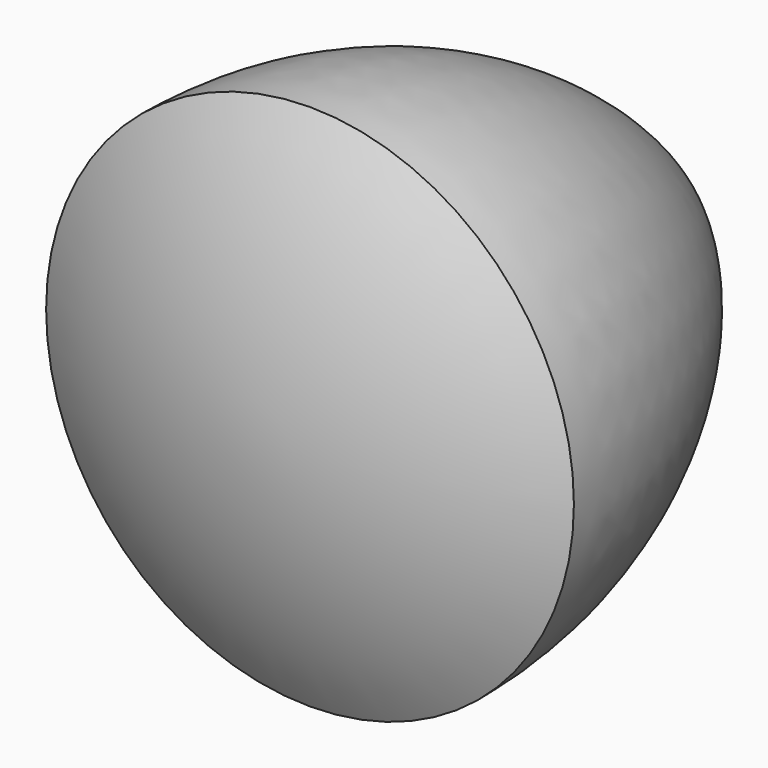
from build123d import *


with BuildPart() as f1:
    # F0 (on Top) → F1 (revolve)
    with BuildSketch(Plane.XY):
        Polygon((21.9970452561, -12.7), (0, 25.4), (0, -12.7), align=None)
        with BuildLine():
            ThreePointArc((21.9970452561, -12.7), (16.1029547439, 9.2970452561), (0, 25.4))
            Line((0, 25.4), (21.9970452561, -12.7))
        make_face()
        with BuildLine():
            ThreePointArc((0, -18.5940905122), (11.3865084965, -17.0950282299), (21.9970452561, -12.7))
            Line((21.9970452561, -12.7), (0, -12.7))
            Line((0, -12.7), (0, -18.5940905122))
        make_face()
    revolve(axis=Axis((0, 0, 0), (0, -1, 0)))


solid = f1.part
